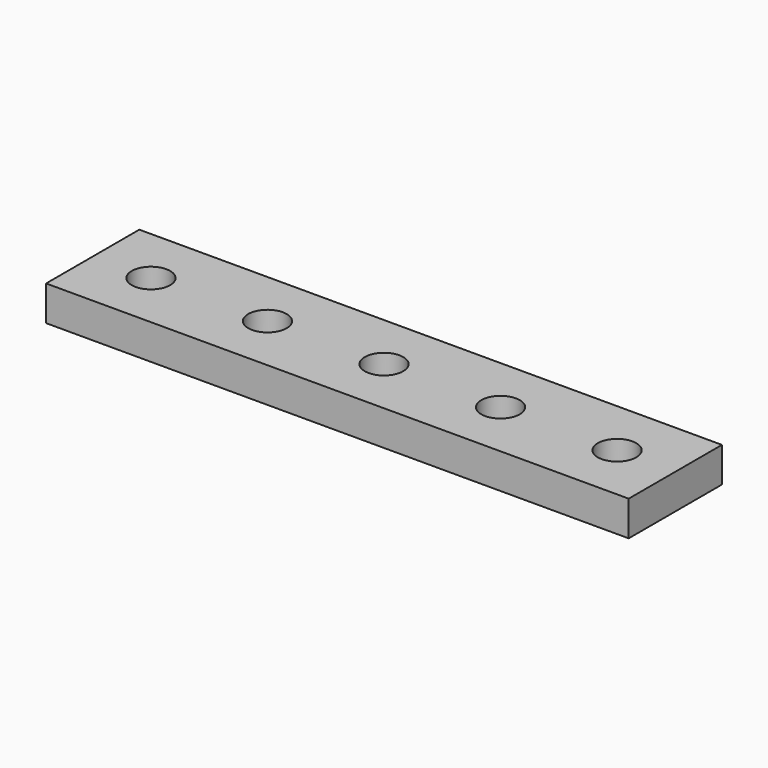
from build123d import *

# Parameters (mm, degrees)
CYLINDER001_R     = 1.65
CYLINDER001_DEPTH = 10
CYLINDER002_R     = 1.65
CYLINDER002_DEPTH = 10
CYLINDER003_R     = 1.65
CYLINDER003_DEPTH = 10
CYLINDER004_R     = 1.65
CYLINDER004_DEPTH = 10
CYLINDER_R        = 1.65
CYLINDER_DEPTH    = 10
BOX_W             = 50
BOX_H             = 10
BOX_DEPTH         = 3


with BuildPart() as taladro002:
    # Cylinder001 → Cylinder001 (new body)
    with BuildSketch(Plane(origin=(15, 5, -4), x_dir=(1, 0, 0), z_dir=(0, 0, 1))):
        Circle(CYLINDER001_R)
    extrude(amount=CYLINDER001_DEPTH)


with BuildPart() as taladro003:
    # Cylinder002 → Cylinder002 (new body)
    with BuildSketch(Plane(origin=(25, 5, -4), x_dir=(1, 0, 0), z_dir=(0, 0, 1))):
        Circle(CYLINDER002_R)
    extrude(amount=CYLINDER002_DEPTH)


with BuildPart() as taladro004:
    # Cylinder003 → Cylinder003 (new body)
    with BuildSketch(Plane(origin=(35, 5, -4), x_dir=(1, 0, 0), z_dir=(0, 0, 1))):
        Circle(CYLINDER003_R)
    extrude(amount=CYLINDER003_DEPTH)


with BuildPart() as taladro005:
    # Cylinder004 → Cylinder004 (new body)
    with BuildSketch(Plane(origin=(45, 5, -4), x_dir=(1, 0, 0), z_dir=(0, 0, 1))):
        Circle(CYLINDER004_R)
    extrude(amount=CYLINDER004_DEPTH)


with BuildPart() as taladros:
    # Cylinder → Cylinder (new body)
    with BuildSketch(Plane(origin=(5, 5, -4), x_dir=(1, 0, 0), z_dir=(0, 0, 1))):
        Circle(CYLINDER_R)
    extrude(amount=CYLINDER_DEPTH)

    # Fusion: union taladro002, taladro003, taladro004, taladro005
    add(taladro002.part)
    add(taladro003.part)
    add(taladro004.part)
    add(taladro005.part)


with BuildPart() as pieza_final:
    # Box → Box (new body)
    with BuildSketch(Plane.XY):
        with Locations((25, 5)):
            Rectangle(BOX_W, BOX_H)
    extrude(amount=BOX_DEPTH)

    # Cut: cut Taladros
    add(taladros.part, mode=Mode.SUBTRACT)


solid = pieza_final.part
